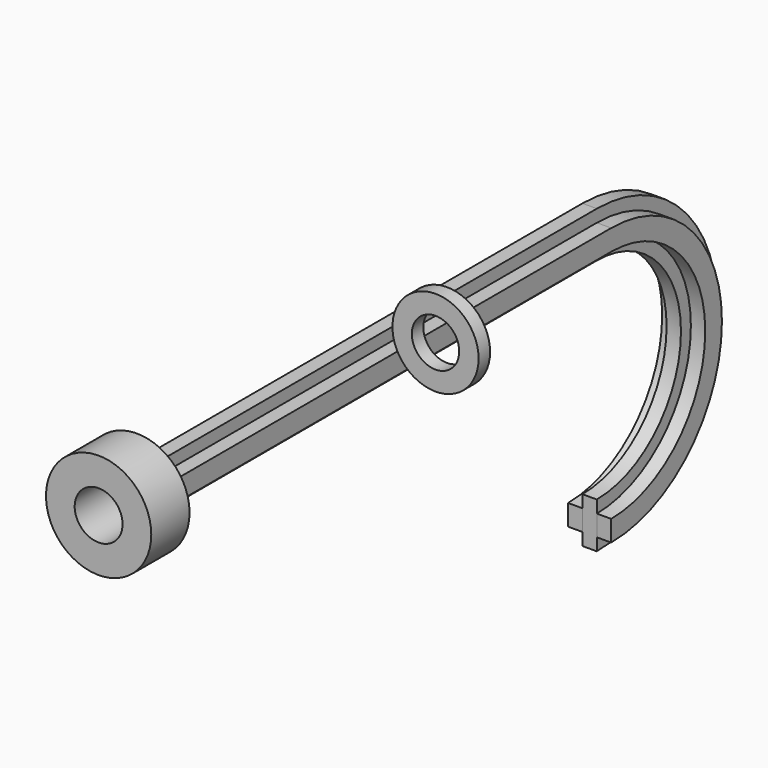
from build123d import *

# Parameters (mm, degrees)
F0_R     = 11
F0_R_2   = 5
F1_DEPTH = 10
F2_W     = 3
F2_H     = 9.5393920142
F3_W     = 3
F3_H     = 4.3588989435
F8_R     = 9
F8_R_2   = 4.95
F9_DEPTH = 3


with BuildPart() as f1:
    # F0 (on Front) → F1 (new body)
    with BuildSketch(Plane.XZ):
        Circle(F0_R)
        Circle(F0_R_2, mode=Mode.SUBTRACT)
    extrude(amount=F1_DEPTH)


with BuildPart() as f5:
    # F5: sweep along a path in F4
    with BuildLine(Plane.YZ) as f5_path:
        Line((0, 0), (118.25, 0))
        ThreePointArc((118.25, 0), (145, -26.75), (118.25, -53.5))
    # F2 (on Front) → F5 (sweep)
    with BuildSketch(Plane.XZ):
        Rectangle(F2_W, F2_H)
    sweep(path=f5_path.line)


with BuildPart() as f6:
    # F6: sweep along a path in F4
    with BuildLine(Plane.YZ) as f6_path:
        Line((0, 0), (118.25, 0))
        ThreePointArc((118.25, 0), (145, -26.75), (118.25, -53.5))
    # F3 (on Front) → F6 (sweep)
    with BuildSketch(Plane.XZ):
        with Locations((3, 0)):
            Rectangle(F3_W, F3_H)
    sweep(path=f6_path.line)


with BuildPart() as f7_1:
    # F7: instance of F6
    add(f6.part.mirror(Plane.YZ))


with BuildPart() as f9:
    # F8 (on Front) → F9 (new body)
    with BuildSketch(Plane.XZ):
        with Locations((64.7970363498, 49.9910265207)):
            Circle(F8_R)
        with Locations((64.7970363498, 49.9910265207)):
            Circle(F8_R_2, mode=Mode.SUBTRACT)
    extrude(amount=F9_DEPTH)


solid = Compound([f1.part, f5.part, f6.part, f7_1.part, f9.part])
